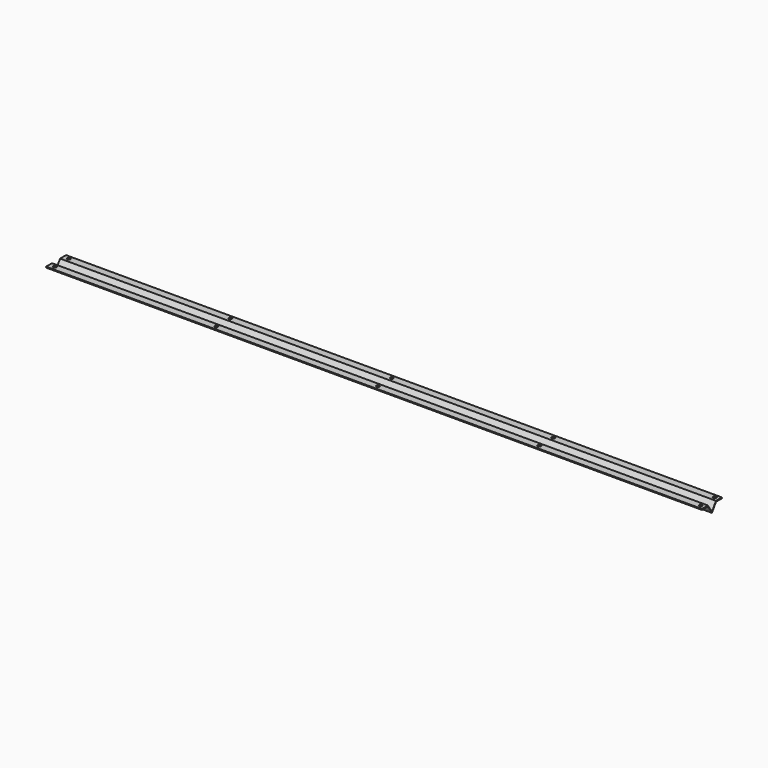
from build123d import *

# Parameters (mm, degrees)
F0_W           = 19.05
F0_H           = 2.303147
F1_DEPTH       = 1676.4
F3_D           = 6.35
F3_CSINK_D     = 12.7
F3_CSINK_ANGLE = 90


with BuildPart() as f1:
    # F0 (on Right) → F1 (new body)
    with BuildSketch(Plane.YZ):
        with Locations((22.355897, 20.761587)):
            Rectangle(F0_W, F0_H)
        Polygon((0, 2.303147), (0, 0), (12.830897, 19.610014), (12.830897, 21.913161), align=None)
        Polygon((-12.830897, 19.610014), (0, 0), (0, 2.303147), (-12.830897, 21.913161), align=None)
        with Locations((-22.355897, 20.761587)):
            Rectangle(F0_W, F0_H)
    extrude(amount=F1_DEPTH)

    # F3 (through all)
    with Locations(Plane(origin=(0, 0, 19.610014), x_dir=(1, 0, 0), z_dir=(0, 0, -1))):
        with Locations((14.068536, 21.574158), (14.068536, -23.129842), (426.818536, -23.129842), (426.818536, 21.574158), (839.568536, -23.129842), (839.568536, 21.574158), (1252.318536, -23.129842), (1252.318536, 21.574158), (1665.068536, -23.129842), (1665.068536, 21.574158)):
            CounterSinkHole(F3_D / 2, F3_CSINK_D / 2, counter_sink_angle=F3_CSINK_ANGLE)


solid = f1.part
